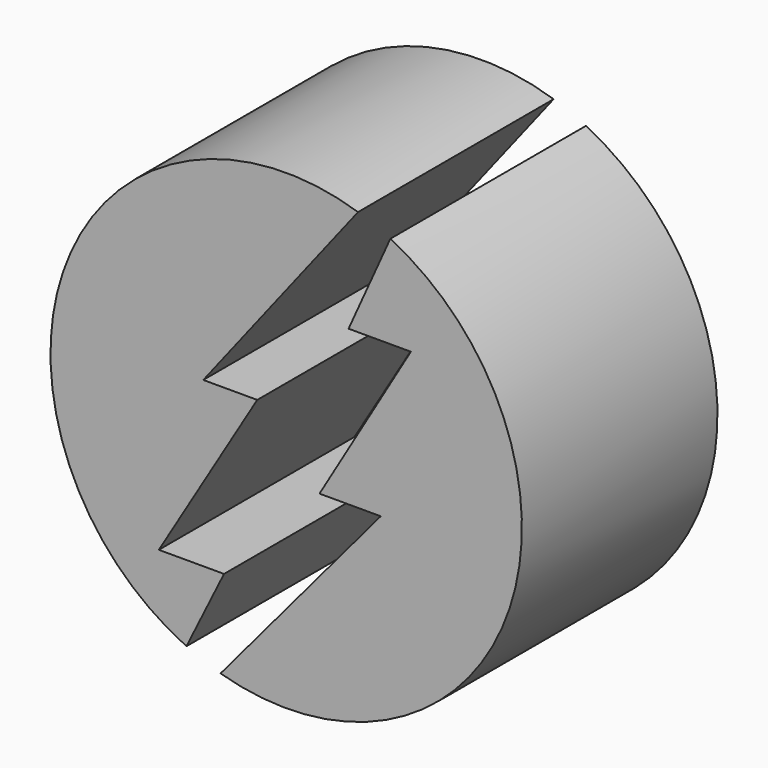
from build123d import *

# Parameters (mm, degrees)
F1_DEPTH = 15


with BuildPart() as f1:
    # F0 (on Front) → F1 (new body)
    with BuildSketch(Plane.XZ):
        with BuildLine():
            Line((-146.490857, -2.71476), (-136.994367, 9.442892))
            ThreePointArc((-136.994367, 9.442892), (-154.868969, 0.944234), (-147.522661, -17.434025))
            Line((-147.522661, -17.434025), (-145.217258, -12.776169))
            Line((-145.217258, -12.776169), (-149.216349, -12.776169))
            Line((-149.216349, -12.776169), (-143.179506, -2.71476))
            Line((-143.179506, -2.71476), (-146.490857, -2.71476))
        make_face()
        with BuildLine():
            ThreePointArc((-145.431007, -18.220298), (-127.919507, -9.55871), (-135.014854, 8.643812))
            Line((-135.014854, 8.643812), (-137.575682, 2.95274))
            Line((-137.575682, 2.95274), (-133.754894, 2.95274))
            Line((-133.754894, 2.95274), (-139.358718, -6.535548))
            Line((-139.358718, -6.535548), (-135.601608, -6.535548))
            Line((-135.601608, -6.535548), (-145.431007, -18.220298))
        make_face()
    extrude(amount=F1_DEPTH)


solid = f1.part
